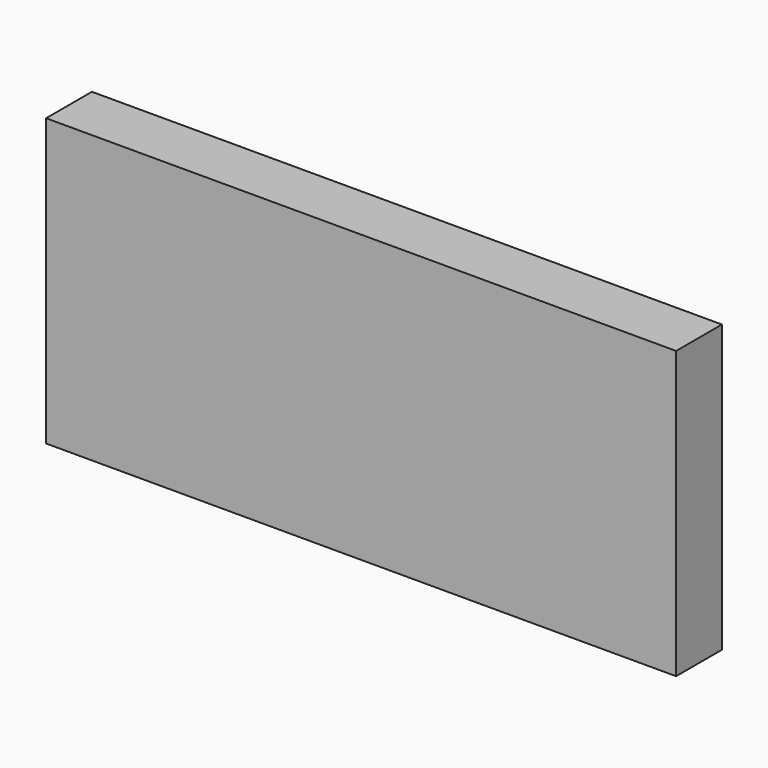
from build123d import *

# Parameters (mm, degrees)
SKETCH_W      = 110
SKETCH_H      = 10
EXTRUDE_DEPTH = 50


with BuildPart() as part:
    # Sketch → Extrude (new body)
    with BuildSketch(Plane.XY):
        Rectangle(SKETCH_W, SKETCH_H)
    extrude(amount=EXTRUDE_DEPTH)


solid = part.part
